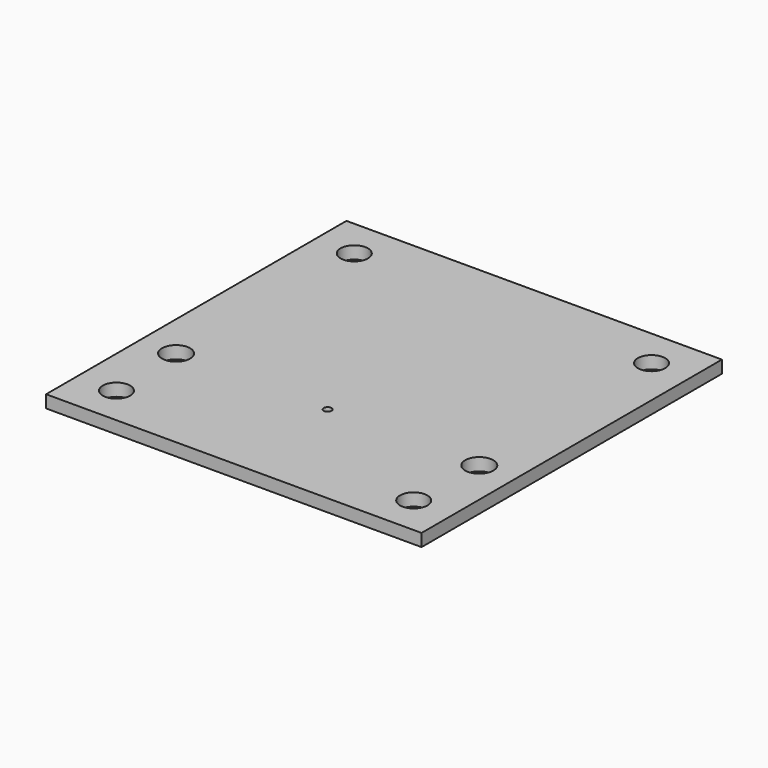
from build123d import *

# Parameters (mm, degrees)
F0_W     = 48
F0_H     = 1.6
F1_DEPTH = 48
F2_R     = 1.75
F2_R_2   = 1.8
F2_R_3   = 0.5
F3_DEPTH = 1.601
F4_W     = 48
F4_H     = 48
F4_R     = 1.75
F4_W_2   = 20
F4_H_2   = 9
F5_DEPTH = 5


with BuildPart() as f1:
    # F0 (on Right) → F1 (new body)
    with BuildSketch(Plane.YZ):
        Rectangle(F0_W, F0_H)
    extrude(amount=-F1_DEPTH)

    # F2 (on face) → F3 (cut, through all)
    with BuildSketch(Plane.XY.offset(0.8)):
        with Locations((-43, -19)):
            Circle(F2_R)
        with Locations((-43, 19)):
            Circle(F2_R)
        with Locations((-43.38, -9)):
            Circle(F2_R_2)
        with Locations((-4.62, -9)):
            Circle(F2_R_2)
        with Locations((-5, 19)):
            Circle(F2_R)
        with Locations((-5, -19)):
            Circle(F2_R)
        with Locations((-24, -9)):
            Circle(F2_R_3)
    extrude(amount=-F3_DEPTH, mode=Mode.SUBTRACT)


with BuildPart() as f5:
    # F4 (on Top) → F5 (new body)
    with BuildSketch(Plane.XY):
        Rectangle(F4_W, F4_H)
        with Locations((-19, -19)):
            Circle(F4_R, mode=Mode.SUBTRACT)
        with Locations((19, -19)):
            Circle(F4_R, mode=Mode.SUBTRACT)
        with Locations((-19, 19)):
            Circle(F4_R, mode=Mode.SUBTRACT)
        with Locations((0, 14.5)):
            Rectangle(F4_W_2, F4_H_2, mode=Mode.SUBTRACT)
        with Locations((19, 19)):
            Circle(F4_R, mode=Mode.SUBTRACT)
    extrude(amount=F5_DEPTH)


solid = f1.part
